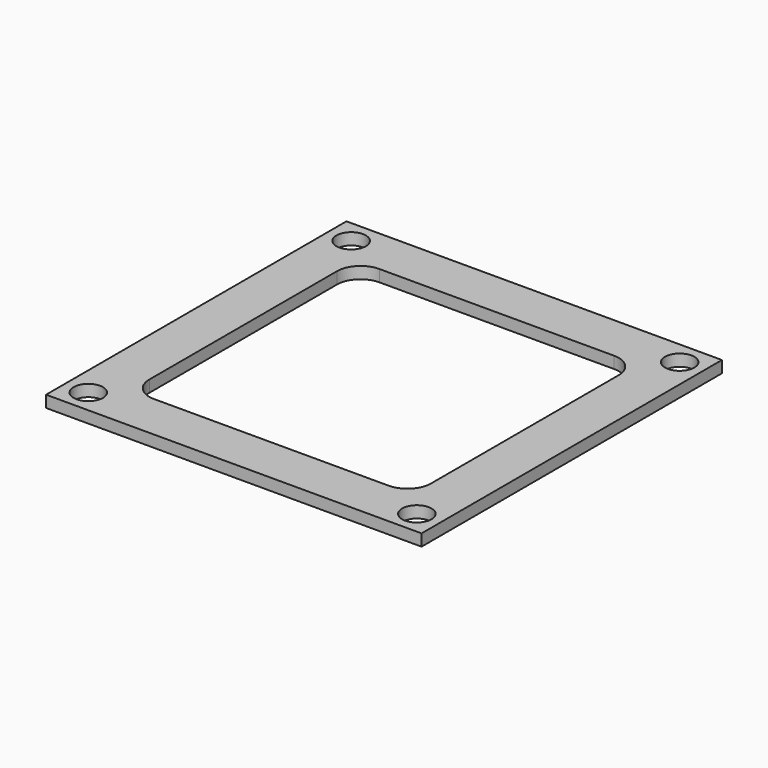
from build123d import *

# Parameters (mm, degrees)
F0_W     = 101.6
F0_H     = 101.6
F0_R     = 3.96875
F1_DEPTH = 3.175


with BuildPart() as f1:
    # F0 (on Top) → F1 (new body)
    with BuildSketch(Plane.XY):
        with Locations((50.8, 50.8)):
            Rectangle(F0_W, F0_H)
        with Locations((6.35, 6.35)):
            Circle(F0_R, mode=Mode.SUBTRACT)
        with Locations((95.25, 6.35)):
            Circle(F0_R, mode=Mode.SUBTRACT)
        with Locations((6.35, 95.25)):
            Circle(F0_R, mode=Mode.SUBTRACT)
        with BuildLine():
            Line((82.55, 12.7), (19.05, 12.7))
            ThreePointArc((19.05, 12.7), (14.559872, 14.559872), (12.7, 19.05))
            Line((12.7, 19.05), (12.7, 82.55))
            ThreePointArc((12.7, 82.55), (14.559872, 87.040128), (19.05, 88.9))
            Line((19.05, 88.9), (82.55, 88.9))
            ThreePointArc((82.55, 88.9), (87.040128, 87.040128), (88.9, 82.55))
            Line((88.9, 82.55), (88.9, 19.05))
            ThreePointArc((88.9, 19.05), (87.040128, 14.559872), (82.55, 12.7))
        make_face(mode=Mode.SUBTRACT)
        with Locations((95.25, 95.25)):
            Circle(F0_R, mode=Mode.SUBTRACT)
    extrude(amount=F1_DEPTH)


solid = f1.part
